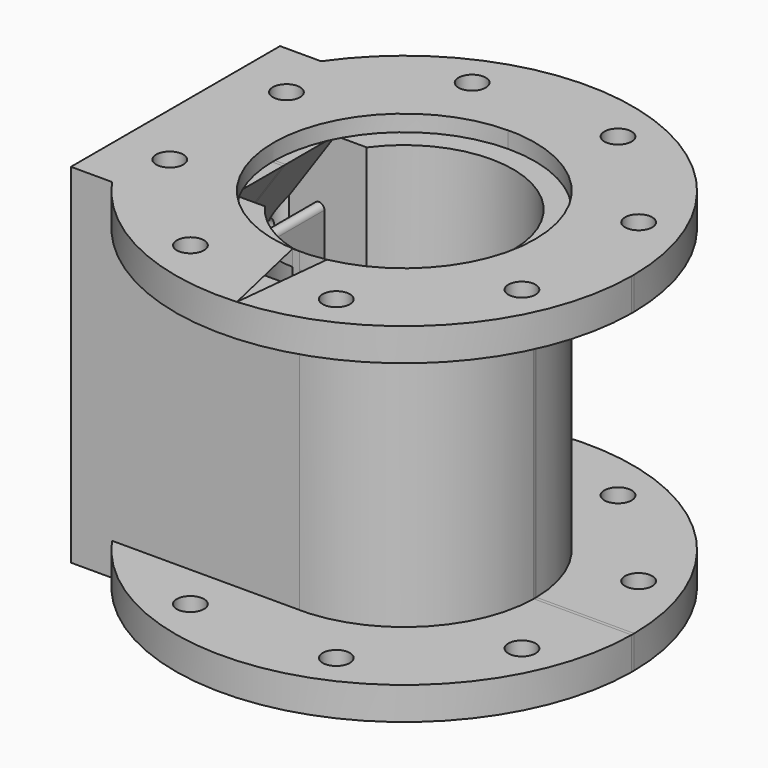
from build123d import *

# Parameters (mm, degrees)
F0_R      = 20
F0_R_2    = 2.5
F2_DEPTH  = 64
F3_R      = 2.5
F3_R_2    = 24.0344370868
F4_DEPTH  = 6
F5_R      = 2.5
F6_DEPTH  = 6
F8_D      = 3.3
F8_DEPTH  = 10
F8_TIP    = 0.9914200214
F9_DEPTH  = 3
F11_W     = 120.8478473127
F11_H     = 85.8693234622
F12_DEPTH = 55.4
F13_W     = 3.756329813
F13_H     = 61
F14_DEPTH = 12
F17_DEPTH = 10
F19_D     = 10.5
F19_DEPTH = 9.9
F19_TIP   = 3.1545182499


with BuildPart() as f2:
    # F0 (on Top) → F2 (new body)
    with BuildSketch(Plane.XY):
        with BuildLine():
            ThreePointArc((0, 24), (-24, 0), (0, -24))
            ThreePointArc((0, -24), (16.9705627485, -16.9705627485), (24, 0))
            ThreePointArc((24, 0), (16.9705627485, 16.9705627485), (0, 24))
        make_face()
        Circle(F0_R, mode=Mode.SUBTRACT)
        with BuildLine():
            Line((-42, -24), (-34.4673758792, -24))
            Line((-34.4673758792, -24), (0, -24))
            ThreePointArc((0, -24), (-24, 0), (0, 24))
            Line((0, 24), (-34.4673758792, 24))
            Line((-34.4673758792, 24), (-42, 24))
            Line((-42, 24), (-42, 21.1562868208))
            Line((-42, 21.1562868208), (-42, 17.4879040569))
            Line((-42, 17.4879040569), (-42, -24))
        make_face()
        with Locations((-32.3357836379, -13.3939201328)):
            Circle(F0_R_2, mode=Mode.SUBTRACT)
        with Locations((-32.3357836379, 13.3939201328)):
            Circle(F0_R_2, mode=Mode.SUBTRACT)
    extrude(amount=-F2_DEPTH)

    # F3 (on Top) → F4 (join)
    with BuildSketch(Plane.XY):
        with BuildLine():
            Line((-42, -24), (-34.4673758792, -24))
            ThreePointArc((-34.4673758792, -24), (42, 0), (-34.4673758792, 24))
            Line((-34.4673758792, 24), (-42, 24))
            Line((-42, 24), (-42, -24))
        make_face()
        with Locations((-13.3939201328, -32.3357836379)):
            Circle(F3_R, mode=Mode.SUBTRACT)
        with Locations((-32.3357836379, -13.3939201328)):
            Circle(F3_R, mode=Mode.SUBTRACT)
        with Locations((13.3939201328, -32.3357836379)):
            Circle(F3_R, mode=Mode.SUBTRACT)
        Circle(F3_R_2, mode=Mode.SUBTRACT)
        with Locations((32.3357836379, -13.3939201328)):
            Circle(F3_R, mode=Mode.SUBTRACT)
        with Locations((-32.3357836379, 13.3939201328)):
            Circle(F3_R, mode=Mode.SUBTRACT)
        with Locations((-13.3939201328, 32.3357836379)):
            Circle(F3_R, mode=Mode.SUBTRACT)
        with Locations((32.3357836379, 13.3939201328)):
            Circle(F3_R, mode=Mode.SUBTRACT)
        with Locations((13.3939201328, 32.3357836379)):
            Circle(F3_R, mode=Mode.SUBTRACT)
    extrude(amount=-F4_DEPTH)

    # F5 (on face) → F6 (join)
    with BuildSketch(Plane(origin=(0, 0, -64), x_dir=(1, 0, 0), z_dir=(0, 0, -1))):
        with BuildLine():
            Line((-34.4673758792, 24), (-1.2861438799, 24))
            ThreePointArc((-1.2861438799, 24), (24.0344370868, 0), (-1.2861438799, -24))
            Line((-1.2861438799, -24), (-34.4673758792, -24))
            ThreePointArc((-34.4673758792, -24), (42, 0), (-34.4673758792, 24))
        make_face()
        with Locations((-13.3939201328, -32.3357836379)):
            Circle(F5_R, mode=Mode.SUBTRACT)
        with Locations((13.3939201328, -32.3357836379)):
            Circle(F5_R, mode=Mode.SUBTRACT)
        with Locations((32.3357836379, -13.3939201328)):
            Circle(F5_R, mode=Mode.SUBTRACT)
        with Locations((-13.3939201328, 32.3357836379)):
            Circle(F5_R, mode=Mode.SUBTRACT)
        with Locations((32.3357836379, 13.3939201328)):
            Circle(F5_R, mode=Mode.SUBTRACT)
        with Locations((13.3939201328, 32.3357836379)):
            Circle(F5_R, mode=Mode.SUBTRACT)
    extrude(amount=-F6_DEPTH)

    # F8
    with Locations(Plane(origin=(-42, 0, 0), x_dir=(0, -1, 0), z_dir=(-1, 0, 0))):
        with Locations((-19, -5.5), (19, -5.5), (-19, -58.5), (19, -58.5)):
            Hole(F8_D / 2, depth=F8_DEPTH)
            with Locations((0, 0, -(F8_DEPTH + F8_TIP / 2))):  # 118° drill point
                Cone(0, F8_D / 2, F8_TIP, mode=Mode.SUBTRACT)

    # F0 (on Top) → F9 (cut)
    with BuildSketch(Plane.XY):
        with BuildLine():
            ThreePointArc((0, 24), (-24, 0), (0, -24))
            ThreePointArc((0, -24), (16.9705627485, -16.9705627485), (24, 0))
            ThreePointArc((24, 0), (16.9705627485, 16.9705627485), (0, 24))
        make_face()
        Circle(F0_R, mode=Mode.SUBTRACT)
    extrude(amount=-F9_DEPTH, mode=Mode.SUBTRACT)

    # F11 (on offset) → F12 (cut)
    with BuildSketch(Plane.XZ.offset(-55.7)):
        with Locations((-2.7961898595, -26.8855560571)):
            Rectangle(F11_W, F11_H)
    extrude(amount=F12_DEPTH, mode=Mode.SUBTRACT)

    # F13 (on face) → F14 (cut)
    with BuildSketch(Plane(origin=(0, 0.3, 0), x_dir=(-1, 0, 0), z_dir=(0, 1, 0))):
        with BuildLine():
            Line((23.9981249268, -48.9203250201), (23.9981249268, -15.6642329194))
            ThreePointArc((23.9981249268, -15.6642329194), (24.6480286686, -14.7275191905), (25.7529901468, -15.0083529765))
            Line((25.7529901468, -15.0083529765), (33.7010043152, -24.1558799429))
            ThreePointArc((33.7010043152, -24.1558799429), (34.0410683437, -24.409912068), (34.4558695353, -24.5))
            Line((34.4558695353, -24.5), (42, -24.5))
            Line((42, -24.5), (42, -20.5))
            Line((42, -20.5), (34, -20.5))
            Line((34, -20.5), (21.9979374001, -3))
            Line((21.9979374001, -3), (19.9977498734, -3))
            Line((19.9977498734, -3), (19.9977498734, -64))
            Line((19.9977498734, -64), (23.9981249268, -64))
            Line((23.9981249268, -64), (23.9981249268, -60))
            Line((23.9981249268, -60), (34, -42.5))
            Line((34, -42.5), (42, -42.5))
            Line((42, -42.5), (42, -38.5))
            Line((42, -38.5), (34.5023088645, -38.5))
            ThreePointArc((34.5023088645, -38.5), (34.0534454687, -38.6063996128), (33.700099856, -38.9029566961))
            Line((33.700099856, -38.9029566961), (25.8003339353, -49.5173683239))
            ThreePointArc((25.8003339353, -49.5173683239), (24.6836483843, -49.8695902645), (23.9981249268, -48.9203250201))
        make_face()
        with BuildLine():
            Line((42, -34.5), (42, -28.5))
            Line((42, -28.5), (34, -28.5))
            ThreePointArc((34, -28.5), (31, -31.5), (34, -34.5))
            Line((34, -34.5), (42, -34.5))
        make_face()
        with Locations((18.1195849669, -33.5)):
            Rectangle(F13_W, F13_H)
    extrude(amount=-F14_DEPTH, mode=Mode.SUBTRACT)

    # F15: F2 across plane


with BuildPart() as f2_1:
    add(f2.part)
    add(f2.part.mirror(Plane.XZ))

    # F16 (on face) → F17 (cut)
    with BuildSketch(Plane(origin=(-42, 0, 0), x_dir=(0, -1, 0), z_dir=(-1, 0, 0))):
        with BuildLine():
            Line((-11.7, -24.5), (-11.7, -20.5))
            ThreePointArc((-11.7, -20.5), (-13.7, -22.5), (-11.7, -24.5))
        make_face()
        with BuildLine():
            ThreePointArc((11.7, -24.5), (13.7, -22.5), (11.7, -20.5))
            Line((11.7, -20.5), (11.7, -24.5))
        make_face()
        with BuildLine():
            ThreePointArc((-11.7, -28.5), (-14.7, -31.5), (-11.7, -34.5))
            Line((-11.7, -34.5), (-11.7, -28.5))
        make_face()
        with BuildLine():
            Line((11.7, -28.5), (11.7, -34.5))
            ThreePointArc((11.7, -34.5), (14.7, -31.5), (11.7, -28.5))
        make_face()
        with BuildLine():
            Line((-11.7, -42.5), (-11.7, -38.5))
            ThreePointArc((-11.7, -38.5), (-13.7, -40.5), (-11.7, -42.5))
        make_face()
        with BuildLine():
            ThreePointArc((11.7, -42.5), (13.7, -40.5), (11.7, -38.5))
            Line((11.7, -38.5), (11.7, -42.5))
        make_face()
    extrude(amount=-F17_DEPTH, mode=Mode.SUBTRACT)

    # F19
    with Locations(Plane(origin=(0, 24, 0), x_dir=(-1, 0, 0), z_dir=(0, 1, 0))):
        with Locations((24, -32)):
            Hole(F19_D / 2, depth=F19_DEPTH)
            with Locations((0, 0, -(F19_DEPTH + F19_TIP / 2))):  # 118° drill point
                Cone(0, F19_D / 2, F19_TIP, mode=Mode.SUBTRACT)


solid = f2_1.part
